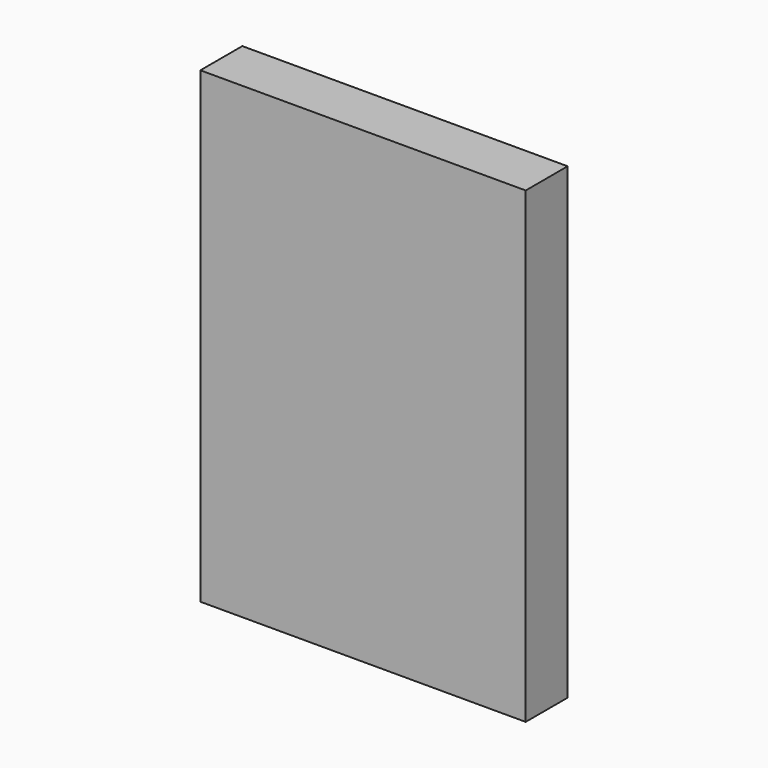
from build123d import *

# Parameters (mm, degrees)
F0_W     = 78.809678
F0_H     = 113.339052
F1_DEPTH = 12.7


with BuildPart() as f1:
    # F0 (on Front) → F1 (new body)
    with BuildSketch(Plane.XZ):
        Rectangle(F0_W, F0_H)
        Rectangle(F0_W, F0_H)
    extrude(amount=F1_DEPTH)


solid = f1.part
